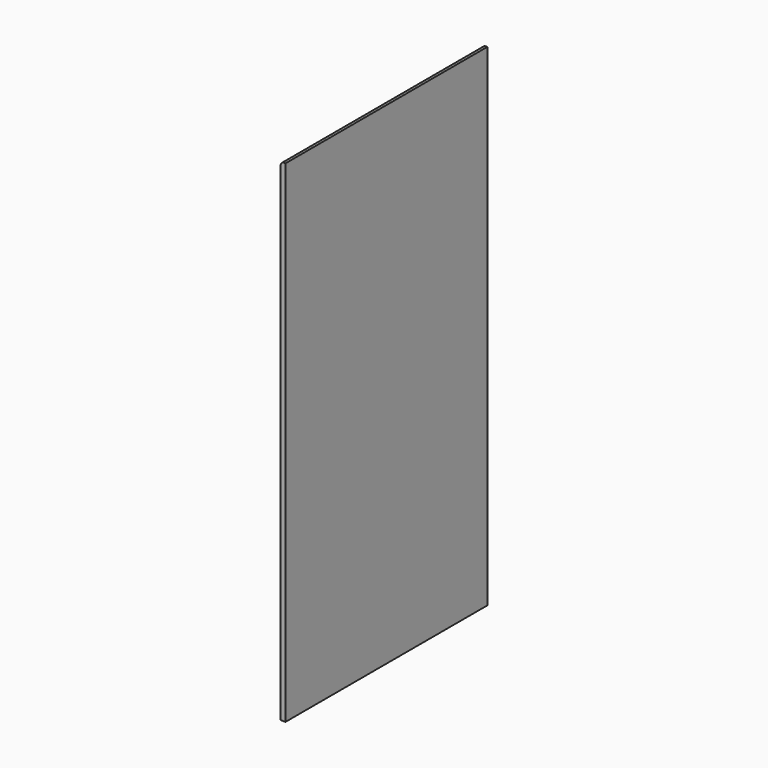
from build123d import *

# Parameters (mm, degrees)
F0_W     = 990.6
F0_H     = 1930.4
F1_DEPTH = 19.05
F2_R     = 12.7


with BuildPart() as f1:
    # F0 (on Right) → F1 (new body)
    with BuildSketch(Plane.YZ):
        Rectangle(F0_W, F0_H)
    extrude(amount=F1_DEPTH)

    # F2
    f2_edges = [f1.edges().sort_by_distance(p)[0] for p in [
        (0, 0, 965.2),
    ]]
    fillet(f2_edges, radius=F2_R)


solid = f1.part
